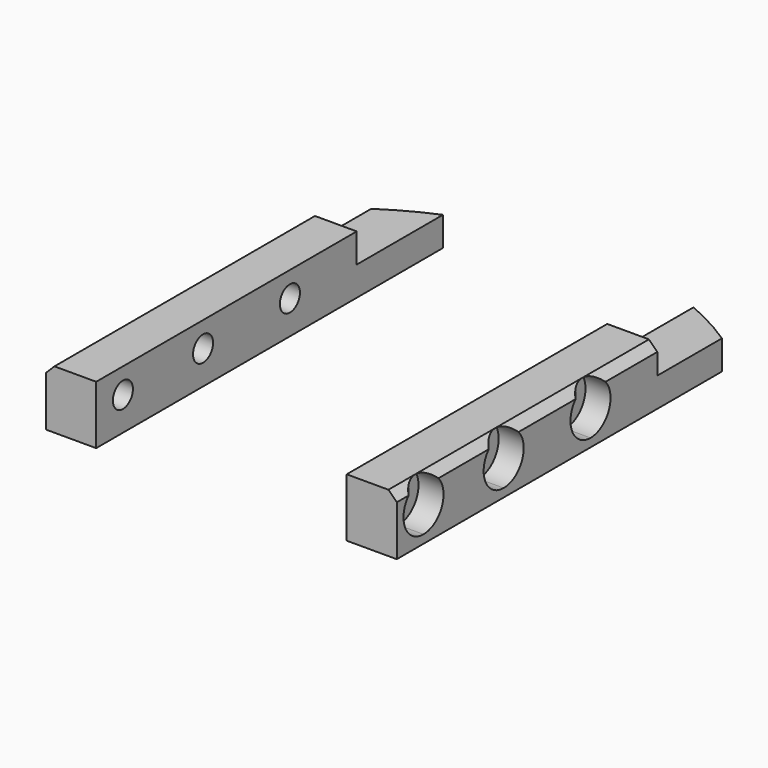
from build123d import *

# Parameters (mm, degrees)
BOX990_W           = 48
BOX990_H           = 20
BOX990_DEPTH       = 18
CYLINDER2690_R     = 1.5
CYLINDER2690_DEPTH = 64
CYLINDER2696_R     = 1.5
CYLINDER2696_DEPTH = 64
CYLINDER2695_R     = 1.5
CYLINDER2695_DEPTH = 64
CYLINDER2691_R     = 3
CYLINDER2691_DEPTH = 3
CYLINDER2692_R     = 3
CYLINDER2692_DEPTH = 3
CYLINDER2694_R     = 3
CYLINDER2694_DEPTH = 3
CYLINDER2693_R     = 3
CYLINDER2693_DEPTH = 3
CYLINDER2697_R     = 3
CYLINDER2697_DEPTH = 3
CYLINDER2698_R     = 3
CYLINDER2698_DEPTH = 3
CYLINDER2648_R     = 38
CYLINDER2648_DEPTH = 20
BOX888_W           = 6
BOX888_H           = 54
BOX888_DEPTH       = 7
BOX887_W           = 6
BOX887_H           = 54
BOX887_DEPTH       = 7
CHAMFER144_SIZE    = 1


with BuildPart() as krychle989:
    # Box990 → Box990 (new body)
    with BuildSketch(Plane(origin=(-24, 22, 13.5), x_dir=(1, 0, 0), z_dir=(0, 0, 1))):
        with Locations((24, 10)):
            Rectangle(BOX990_W, BOX990_H)
    extrude(amount=BOX990_DEPTH)


with BuildPart() as obj1:
    # Cylinder2690 → Cylinder2690 (new body)
    with BuildSketch(Plane(origin=(-26, -11, 13), x_dir=(0, 0, -1), z_dir=(1, 0, 0))):
        Circle(CYLINDER2690_R)
    extrude(amount=CYLINDER2690_DEPTH)


with BuildPart() as obj2:
    # Cylinder2696 → Cylinder2696 (new body)
    with BuildSketch(Plane(origin=(-26, 14, 13), x_dir=(0, 0, -1), z_dir=(1, 0, 0))):
        Circle(CYLINDER2696_R)
    extrude(amount=CYLINDER2696_DEPTH)


with BuildPart() as compound1202:
    # Cylinder2695 → Cylinder2695 (new body)
    with BuildSketch(Plane(origin=(-26, 1, 13), x_dir=(0, 0, -1), z_dir=(1, 0, 0))):
        Circle(CYLINDER2695_R)
    extrude(amount=CYLINDER2695_DEPTH)

    # Compound1202: union obj1, obj2
    add(obj1.part)
    add(obj2.part)


with BuildPart() as compound1202_1:
    # Compound1202 placement: moved
    add(compound1202.part.moved(Location((0, -2, 1))))


with BuildPart() as obj3:
    # Cylinder2691 → Cylinder2691 (new body)
    with BuildSketch(Plane(origin=(-26, -11, 13), x_dir=(0, 0, -1), z_dir=(1, 0, 0))):
        Circle(CYLINDER2691_R)
    extrude(amount=CYLINDER2691_DEPTH)


with BuildPart() as obj4:
    # Cylinder2692 → Cylinder2692 (new body)
    with BuildSketch(Plane(origin=(-26, 14, 13), x_dir=(0, 0, -1), z_dir=(1, 0, 0))):
        Circle(CYLINDER2692_R)
    extrude(amount=CYLINDER2692_DEPTH)


with BuildPart() as compound1201:
    # Cylinder2694 → Cylinder2694 (new body)
    with BuildSketch(Plane(origin=(-26, 1, 13), x_dir=(0, 0, -1), z_dir=(1, 0, 0))):
        Circle(CYLINDER2694_R)
    extrude(amount=CYLINDER2694_DEPTH)

    # Compound1201: union obj3, obj4
    add(obj3.part)
    add(obj4.part)


with BuildPart() as compound1201_1:
    # Compound1201 placement: moved
    add(compound1201.part.moved(Location((5, -2, 1))))


with BuildPart() as obj5:
    # Cylinder2693 → Cylinder2693 (new body)
    with BuildSketch(Plane(origin=(-26, -11, 13), x_dir=(0, 0, -1), z_dir=(1, 0, 0))):
        Circle(CYLINDER2693_R)
    extrude(amount=CYLINDER2693_DEPTH)


with BuildPart() as obj6:
    # Cylinder2697 → Cylinder2697 (new body)
    with BuildSketch(Plane(origin=(-26, 14, 13), x_dir=(0, 0, -1), z_dir=(1, 0, 0))):
        Circle(CYLINDER2697_R)
    extrude(amount=CYLINDER2697_DEPTH)


with BuildPart() as compound1183:
    # Cylinder2698 → Cylinder2698 (new body)
    with BuildSketch(Plane(origin=(-26, 1, 13), x_dir=(0, 0, -1), z_dir=(1, 0, 0))):
        Circle(CYLINDER2698_R)
    extrude(amount=CYLINDER2698_DEPTH)

    # Compound1183: union obj5, obj6
    add(obj5.part)
    add(obj6.part)


with BuildPart() as compound1183_1:
    # Compound1183 placement: moved
    add(compound1183.part.moved(Location((44, -2, 1))))


with BuildPart() as obj7:
    # Cylinder2648 → Cylinder2648 (new body)
    with BuildSketch(Plane.XY):
        Circle(CYLINDER2648_R)
    extrude(amount=CYLINDER2648_DEPTH)


with BuildPart() as krychle887:
    # Box888 → Box888 (new body)
    with BuildSketch(Plane(origin=(-21, -17, 10), x_dir=(1, 0, 0), z_dir=(0, 0, 1))):
        with Locations((3, 27)):
            Rectangle(BOX888_W, BOX888_H)
    extrude(amount=BOX888_DEPTH)


with BuildPart() as cut1061:
    # Box887 → Box887 (new body)
    with BuildSketch(Plane(origin=(15, -17, 10), x_dir=(1, 0, 0), z_dir=(0, 0, 1))):
        with Locations((3, 27)):
            Rectangle(BOX887_W, BOX887_H)
    extrude(amount=BOX887_DEPTH)

    # Compound1171: union Krychle887
    add(krychle887.part)

    # Common006: intersect obj7
    add(obj7.part, mode=Mode.INTERSECT)

    # Chamfer144
    chamfer144_edges = [cut1061.edges().sort_by_distance(p)[0] for p in [
        (21, 7.335088, 17),
        (-21, 7.335088, 17),
    ]]
    chamfer(chamfer144_edges, length=CHAMFER144_SIZE)

    # Cut988: cut Compound1183
    add(compound1183_1.part, mode=Mode.SUBTRACT)

    # Cut1011: cut Compound1201
    add(compound1201_1.part, mode=Mode.SUBTRACT)

    # Cut1010: cut Compound1202
    add(compound1202_1.part, mode=Mode.SUBTRACT)

    # Cut1061: cut Krychle989
    add(krychle989.part, mode=Mode.SUBTRACT)


solid = cut1061.part
